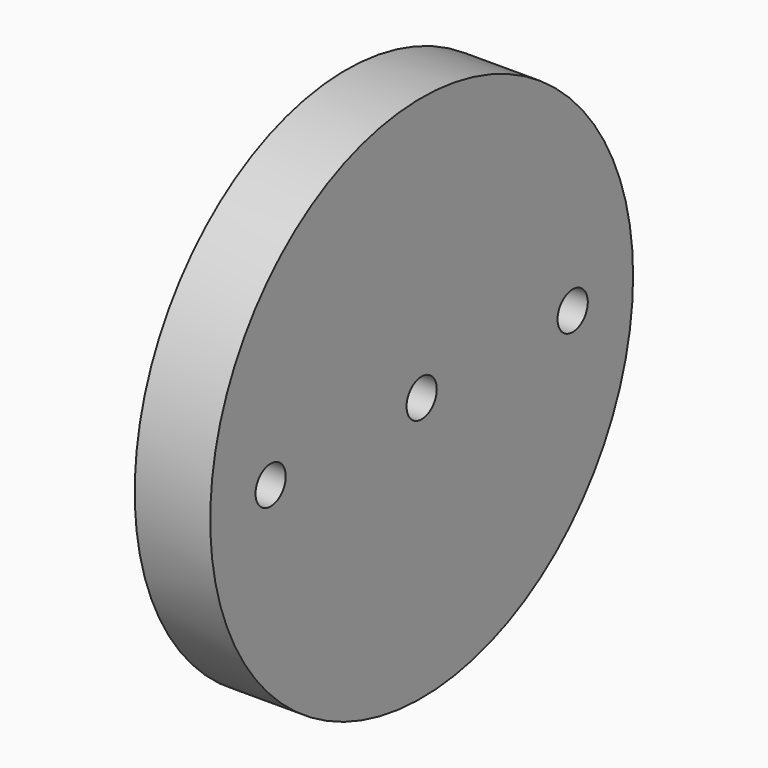
from build123d import *

# Parameters (mm, degrees)
F0_R     = 35
F0_R_2   = 2.5
F1_DEPTH = 5


with BuildPart() as f1:
    # F0 (on Right) → F1 (new body, symmetric)
    with BuildSketch(Plane.YZ):
        Circle(F0_R)
        with Locations((-25, 0)):
            Circle(F0_R_2, mode=Mode.SUBTRACT)
        Circle(F0_R_2, mode=Mode.SUBTRACT)
        with BuildLine():
            ThreePointArc((27.5, 0), (25, -2.5), (22.5, 0))
            ThreePointArc((22.5, 0), (25, 2.5), (27.5, 0))
        make_face(mode=Mode.SUBTRACT)
    extrude(amount=F1_DEPTH, both=True)


solid = f1.part
